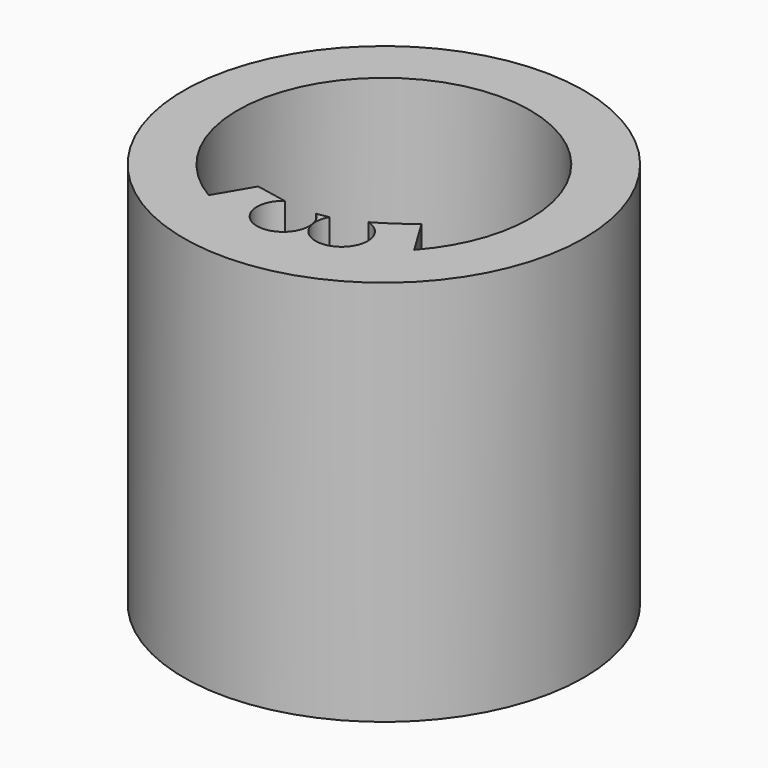
from build123d import *

# Parameters (mm, degrees)
F0_R     = 13.1466034644
F1_DEPTH = 25.4
F3_DEPTH = 25.4


with BuildPart() as f1:
    # F0 (on Top) → F1 (new body)
    with BuildSketch(Plane.XY):
        with Locations((22.2542323142, 16.408336586)):
            Circle(F0_R)
        with BuildLine():
            ThreePointArc((17.3713553391, 8.1242080796), (17.4837466767, 24.7576922166), (31.8703267742, 16.408336586))
            ThreePointArc((31.8703267742, 16.408336586), (31.2310278998, 12.9606687251), (29.3981352357, 9.9714177802))
            ThreePointArc((29.3981352357, 9.9714177802), (26.7985489054, 7.9337593468), (23.662805616, 6.895966013))
            ThreePointArc((23.662805616, 6.895966013), (20.4117228442, 6.9704114159), (17.3713553391, 8.1242080796))
        make_face(mode=Mode.SUBTRACT)
        with BuildLine():
            ThreePointArc((23.662805616, 6.895966013), (26.7985489054, 7.9337593468), (29.3981352357, 9.9714177802))
            Line((29.3981352357, 9.9714177802), (27.9079406361, 12.4224082931))
            add(Edge.make_bspline(
                [(23.662805616, 10.0813770912), (25.3011567226, 10.4707698937), (26.9352469675, 11.7126964633), (27.9079406361, 12.4224082931)],
                knots=[0.5019879856, 0.5019879856, 0.5019879856, 0.5019879856, 1, 1, 1, 1], degree=3))
            Line((23.662805616, 10.0813770912), (23.662805616, 6.895966013))
        make_face()
        with BuildLine():
            Line((18.7523793429, 10.4672079906), (17.3713553391, 8.1242080796))
            ThreePointArc((17.3713553391, 8.1242080796), (20.4117228442, 6.9704114159), (23.662805616, 6.895966013))
            Line((23.662805616, 6.895966013), (23.662805616, 10.0813770912))
            add(Edge.make_bspline(
                [(18.7523793429, 10.4672079906), (20.3556140754, 10.1625747365), (22.0113744297, 9.688875499), (23.662805616, 10.0813770912)],
                knots=[0, 0, 0, 0, 0.5019879856, 0.5019879856, 0.5019879856, 0.5019879856], degree=3))
        make_face()
    extrude(amount=-F1_DEPTH)

    # F2 (on face) → F3 (cut)
    with BuildSketch(Plane.XY):
        with BuildLine():
            add(Edge.make_bspline(
                [(22.9678027966, 9.964484064), (22.2495247463, 9.8906014768), (21.5319362459, 9.9530967079), (20.8197145148, 10.0668024382)],
                knots=[1.070410353, 1.070410353, 1.070410353, 1.070410353, 1.2887337185, 1.2887337185, 1.2887337185, 1.2887337185], degree=3))
            ThreePointArc((22.9678027966, 9.964484064), (21.9116925702, 10.3921507142), (20.8197145148, 10.0668024382))
        make_face()
        with BuildLine():
            ThreePointArc((20.8197145148, 10.0668024382), (21.046706191, 7.1381420291), (23.551896206, 8.6719607934))
            ThreePointArc((23.551896206, 8.6719607934), (23.3990939232, 9.3811472139), (22.9678027966, 9.964484064))
            add(Edge.make_bspline(
                [(22.9678027966, 9.964484064), (22.2495247463, 9.8906014768), (21.5319362459, 9.9530967079), (20.8197145148, 10.0668024382)],
                knots=[1.070410353, 1.070410353, 1.070410353, 1.070410353, 1.2887337185, 1.2887337185, 1.2887337185, 1.2887337185], degree=3))
        make_face()
        with BuildLine():
            ThreePointArc((25.6390406998, 10.8996020133), (24.5525965747, 10.8191970092), (23.735100283, 10.0991097821))
            add(Edge.make_bspline(
                [(25.6390406998, 10.8996020133), (25.0340333492, 10.5593442342), (24.3856651722, 10.2635991457), (23.735100283, 10.0991097821)],
                knots=[0.7948888634, 0.7948888634, 0.7948888634, 0.7948888634, 0.9926743355, 0.9926743355, 0.9926743355, 0.9926743355], degree=3))
        make_face()
        with BuildLine():
            add(Edge.make_bspline(
                [(25.6390406998, 10.8996020133), (25.0340333492, 10.5593442342), (24.3856651722, 10.2635991457), (23.735100283, 10.0991097821)],
                knots=[0.7948888634, 0.7948888634, 0.7948888634, 0.7948888634, 0.9926743355, 0.9926743355, 0.9926743355, 0.9926743355], degree=3))
            ThreePointArc((23.735100283, 10.0991097821), (24.7720390374, 7.5907286664), (26.9257952006, 9.2425616458))
            ThreePointArc((26.9257952006, 9.2425616458), (26.566331746, 10.2915516272), (25.6390406998, 10.8996020133))
        make_face()
    extrude(amount=-F3_DEPTH, mode=Mode.SUBTRACT)


solid = f1.part
